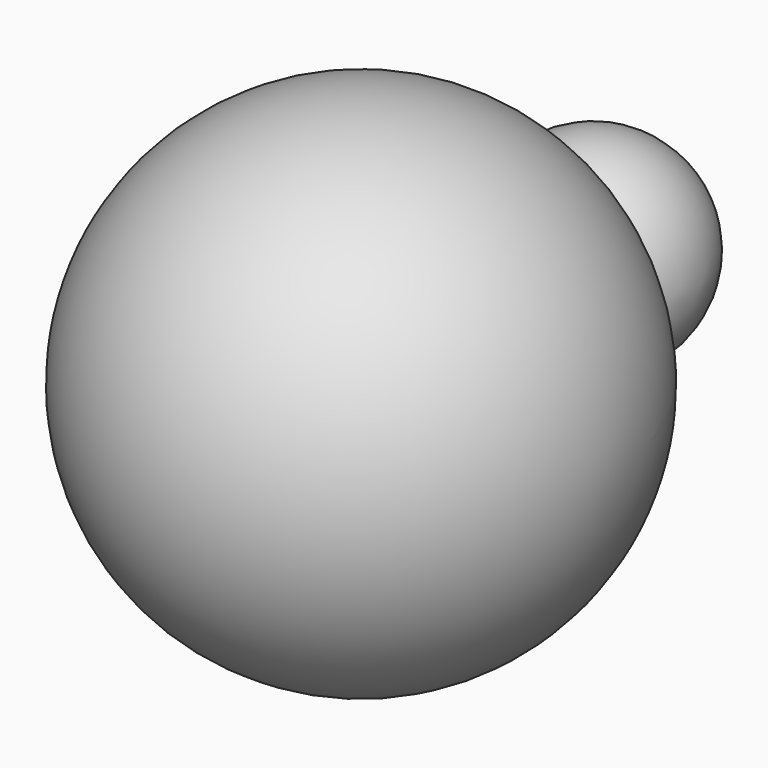
from build123d import *


with BuildPart() as f1:
    # F0 (on Top) → F1 (revolve)
    with BuildSketch(Plane.XY):
        with BuildLine():
            Line((-63.541643, 0), (63.541643, 0))
            ThreePointArc((63.541643, 0), (0, 63.541643), (-63.541643, 0))
        make_face()
    revolve(axis=Axis((0, 0, 0), (1, 0, 0)))

    # F2 (on Top) → F3 (revolve)
    with BuildSketch(Plane.XY):
        with BuildLine():
            Line((0, 63.916765), (0, 74.870877))
            ThreePointArc((0, 74.870877), (-8.101354, 69.393821), (0, 63.916765))
        make_face()
    revolve(axis=Axis((0, 69.393821, 0), (0, -1, 0)))

    # F4 (on Top) → F5 (revolve)
    with BuildSketch(Plane.XY):
        with BuildLine():
            ThreePointArc((0, 48.743203), (26.065968, 74.809171), (0, 100.875139))
            Line((0, 100.875139), (0, 48.743203))
        make_face()
    revolve(axis=Axis((0, 74.809171, 0), (0, -1, 0)))


solid = f1.part
